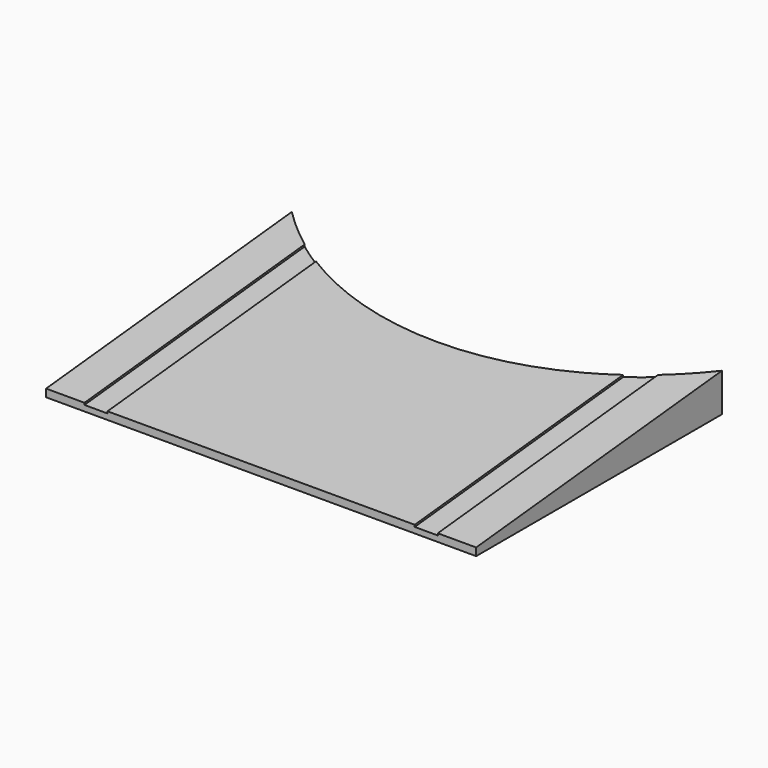
from build123d import *

# Parameters (mm, degrees)
F1_DEPTH = 2800
F2_R     = 4000
F3_DEPTH = 500
F4_W     = 300
F4_H     = 4000
F5_DEPTH = 25


with BuildPart() as f1:
    # F0 (on Right) → F1 (new body, symmetric)
    with BuildSketch(Plane.YZ):
        Polygon((-4000, 0), (0, 0), (0, 500), (-4000, 100), align=None)
    extrude(amount=F1_DEPTH, both=True)

    # F2 (on Top) → F3 (cut)
    with BuildSketch(Plane.XY):
        with Locations((0, 2856.5713714171)):
            Circle(F2_R)
    extrude(amount=F3_DEPTH, mode=Mode.SUBTRACT)

    # F4 (on face) → F5 (cut)
    with BuildSketch(Plane(origin=(0, -49.504950495, 495.0495049505), x_dir=(1, 0, 0), z_dir=(0, -0.099503719, 0.9950371902))):
        with Locations((-2150, -2368.3654400909)):
            Rectangle(F4_W, F4_H)
        with Locations((2150, -2368.3654400909)):
            Rectangle(F4_W, F4_H)
    extrude(amount=-F5_DEPTH, mode=Mode.SUBTRACT)


solid = f1.part
